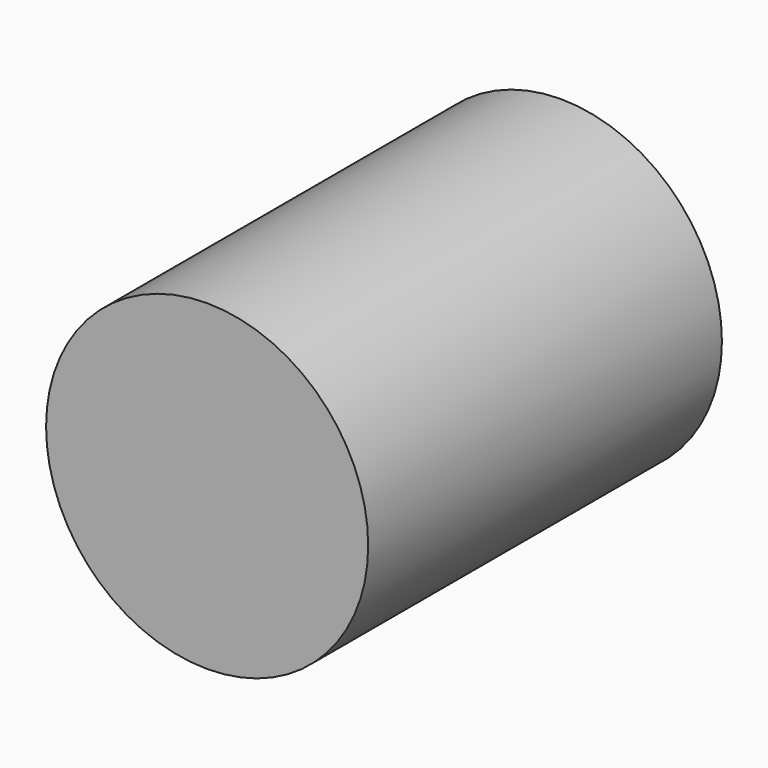
from build123d import *

# Parameters (mm, degrees)
F0_R     = 92.514345
F1_DEPTH = 254
F2_R     = 16.55591
F3_DEPTH = 254


with BuildPart() as f1:
    # F0 (on Front) → F1 (new body)
    with BuildSketch(Plane.XZ):
        with Locations((-46.535396, 79.958496)):
            Circle(F0_R)
    extrude(amount=F1_DEPTH)

    # F2 (on face) → F3 (join)
    with BuildSketch(Plane(origin=(0, 0, 0), x_dir=(-1, 0, 0), z_dir=(0, 1, 0))):
        with Locations((46.535396, 79.958496)):
            Circle(F2_R)
    extrude(amount=-F3_DEPTH)


solid = f1.part
